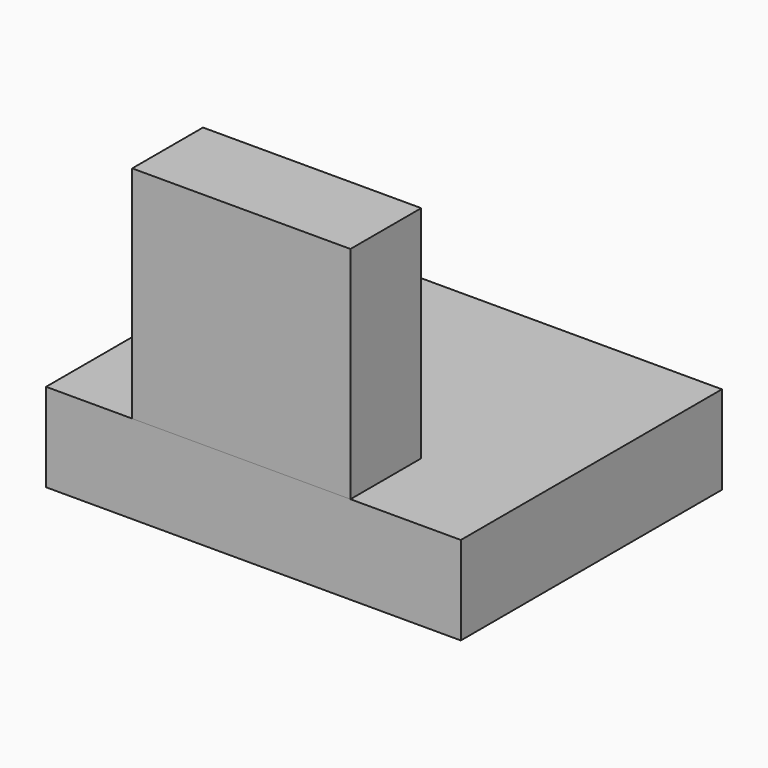
from build123d import *

# Parameters (mm, degrees)
F0_W     = 117.18414
F0_H     = 92.210472
F1_DEPTH = 25
F2_W     = 61.659556
F2_H     = 62.238863
F3_DEPTH = 25


with BuildPart() as f1:
    # F0 (on Top) → F1 (new body)
    with BuildSketch(Plane.XY):
        Rectangle(F0_W, F0_H)
    extrude(amount=F1_DEPTH)


with BuildPart() as f3:
    # F2 (on face) → F3 (new body)
    with BuildSketch(Plane.XZ.offset(46.105236)):
        with Locations((-3.425533, 56.119431)):
            Rectangle(F2_W, F2_H)
    extrude(amount=-F3_DEPTH)


solid = Compound([f1.part, f3.part])
